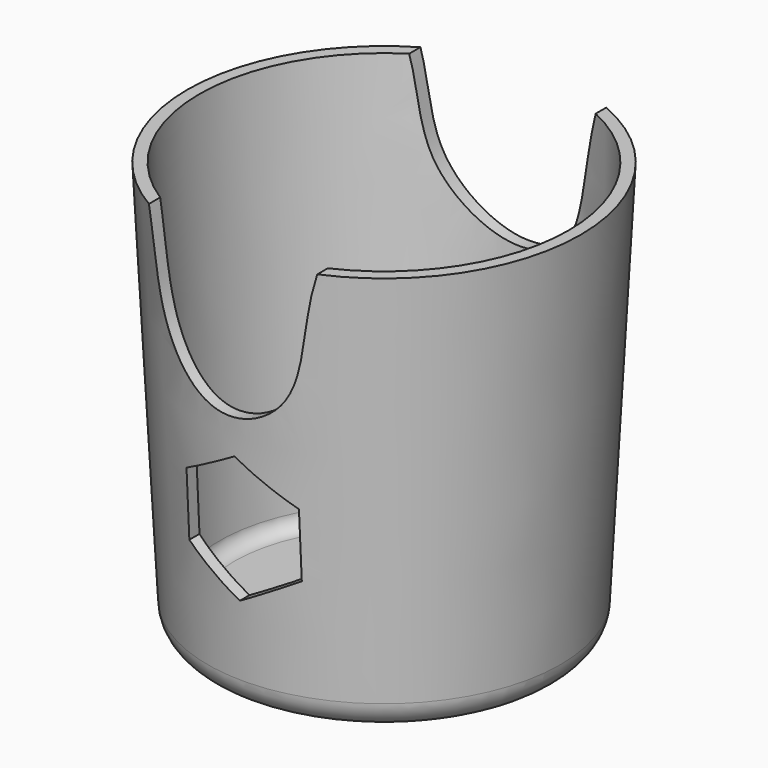
from build123d import *

# Parameters (mm, degrees)
F0_R     = 36.5179741317
F1_DEPTH = 86
F1_TAPER = -3
F2_T     = -2.5
F4_DEPTH = 67.6
F6_DEPTH = 101
F7_R     = 3
F8_R     = 6


with BuildPart() as f1:
    # F0 (on Top) → F1 (new body)
    with BuildSketch(Plane.XY):
        Circle(F0_R)
    extrude(amount=F1_DEPTH, taper=F1_TAPER)

    # F2
    f2_openings = [f1.faces().sort_by_distance(p)[0] for p in [
        (0, 0, 86),
    ]]
    offset(amount=F2_T, openings=f2_openings, kind=Kind.INTERSECTION)

    # F3 (on Front) → F4 (cut, symmetric)
    with BuildSketch(Plane.XZ):
        Polygon((11.7323016748, 27.5090516972), (11.7323016748, 41.0563467575), (0, 47.8299942876), (-11.7323016748, 41.0563467575), (-11.7323016748, 27.5090516972), (0, 20.735404167), align=None)
    extrude(amount=F4_DEPTH, both=True, mode=Mode.SUBTRACT)

    # F5 (on Front) → F6 (cut, symmetric)
    with BuildSketch(Plane.XZ):
        with BuildLine():
            Line((29.2842475001, 110.4101017118), (-35.2238230407, 110.4101017118))
            add(Edge.make_bspline(
                [(-35.2238230407, 110.4101017118), (-29.7514190862, 103.6952824897), (-18.9586292348, 90.4497753083), (-19.7072395408, 67.0216235894), (-4.321025151, 52.1067751561), (13.9204202649, 59.2901365819), (13.1893577046, 85.3497190624), (23.5286639854, 102.6772105116), (29.2842475001, 110.4101017118)],
                knots=[0, 0, 0, 0, 0.1785016092, 0.346871767, 0.4974328306, 0.6320967895, 0.8055665743, 1, 1, 1, 1], degree=3))
        make_face()
    extrude(amount=F6_DEPTH, both=True, mode=Mode.SUBTRACT)

    # F7
    f7_edges = [f1.edges().sort_by_distance(p)[0] for p in [
        (-34.145563, 0, 2.5),
    ]]
    fillet(f7_edges, radius=F7_R)

    # F8
    f8_edges = [f1.edges().sort_by_distance(p)[0] for p in [
        (-36.517974, 0, 0),
    ]]
    fillet(f8_edges, radius=F8_R)


solid = f1.part
